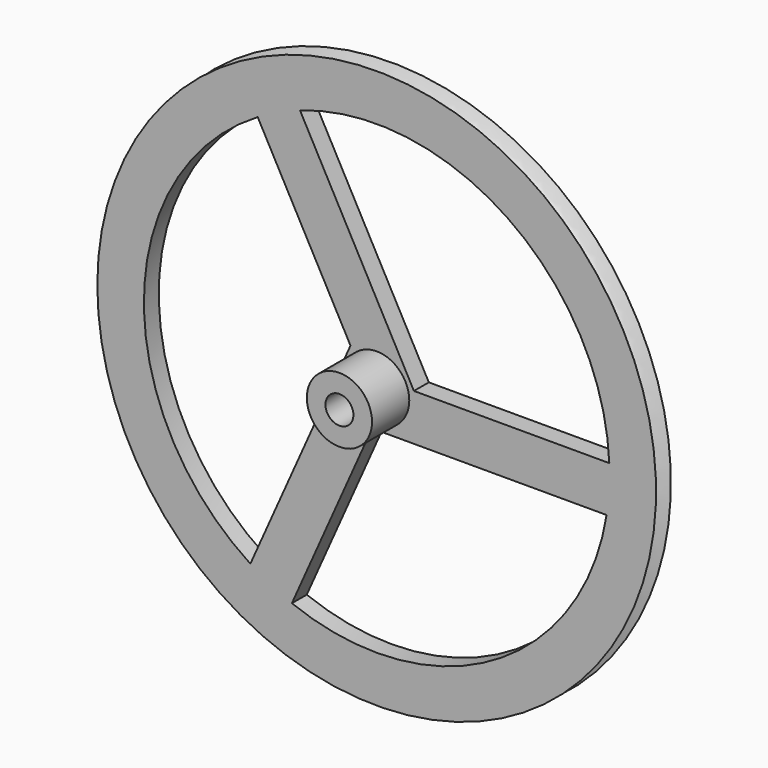
from build123d import *

# Parameters (mm, degrees)
F2_R     = 25
F2_R_2   = 3.5
F2_R_3   = 1.5
F3_DEPTH = 1000
F5_DEPTH = 2
F6_DEPTH = 525
F7_DEPTH = 5


with BuildPart() as f1:
    # F0 (on Top) → F1 (revolve)
    with BuildSketch(Plane.XY):
        with BuildLine():
            Line((-30, 0), (0, 0))
            Line((0, 0), (0, 2))
            Line((0, 2), (-30, 2))
            add(Edge.make_bspline(
                [(-30, 2), (-28.8391709328, 1.4451311436), (-28.4943742579, 1.052107198), (-28.9041697979, 0.4963185056), (-30, 0)],
                knots=[0, 0, 0, 0, 0.4988572797, 1, 1, 1, 1], degree=3))
        make_face()
    revolve(axis=Axis((0, 1, 0), (0, -1, 0)))

    # F2 (on Front) → F3 (cut)
    with BuildSketch(Plane.XZ):
        Circle(F2_R)
        Circle(F2_R_2, mode=Mode.SUBTRACT)
        Circle(F2_R_3)
    extrude(amount=-F3_DEPTH, mode=Mode.SUBTRACT)

    # F4 (on Front) → F5 (join)
    with BuildSketch(Plane.XZ):
        Polygon((-2.8139011922, 3.1256922416), (-14.0678024009, -22.1267679741), (-9.5007999253, -24.1620783653), (-0.4918737939, -3.9470840711), (25.7489216609, -3.9470840711), (25.7489216609, 1.0529159289), (3.999228884, 1.0529159289), (-8.7940401669, 24.6323469789), (-13.1888537492, 22.2478945098), align=None)
    extrude(amount=-F5_DEPTH)

    # F2 (on Front) → F6 (cut, symmetric)
    with BuildSketch(Plane.XZ):
        Circle(F2_R_3)
    extrude(amount=F6_DEPTH, both=True, mode=Mode.SUBTRACT)

    # F2 (on Front) → F7 (join)
    with BuildSketch(Plane.XZ):
        Circle(F2_R_2)
        Circle(F2_R_3, mode=Mode.SUBTRACT)
    extrude(amount=F7_DEPTH)


solid = f1.part
